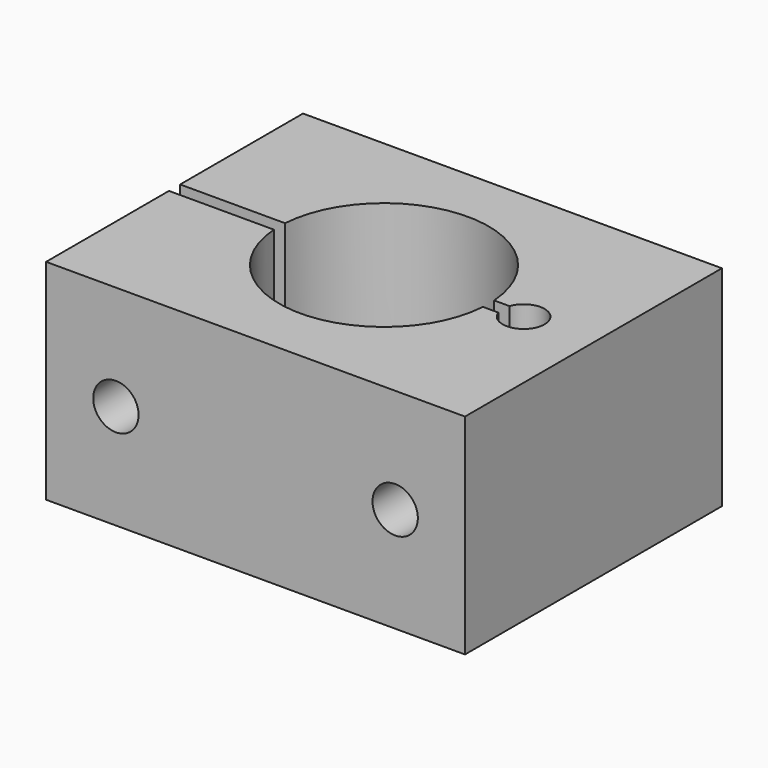
from build123d import *

# Parameters (mm, degrees)
F1_DEPTH = 30
F2_R     = 3.25
F3_DEPTH = 25


with BuildPart() as f1:
    # F0 (on Top) → F1 (new body)
    with BuildSketch(Plane.XY):
        with BuildLine():
            Line((-30, -1), (-30, -23))
            Line((-30, -23), (30, -23))
            Line((30, -23), (30, 23))
            Line((30, 23), (-30, 23))
            Line((-30, 23), (-30, 1))
            Line((-30, 1), (-14.96663, 1))
            ThreePointArc((-14.96663, 1), (0, 15), (14.96663, 1))
            Line((14.96663, 1), (17.171573, 1))
            ThreePointArc((17.171573, 1), (23, 0), (17.171573, -1))
            Line((17.171573, -1), (14.96663, -1))
            ThreePointArc((14.96663, -1), (0, -15), (-14.96663, -1))
            Line((-14.96663, -1), (-30, -1))
        make_face()
    extrude(amount=F1_DEPTH)

    # F2 (on face) → F3 (cut)
    with BuildSketch(Plane.XZ.offset(23)):
        with Locations((-20, 15)):
            Circle(F2_R)
        with Locations((20, 15)):
            Circle(F2_R)
    extrude(amount=-F3_DEPTH, mode=Mode.SUBTRACT)


solid = f1.part
